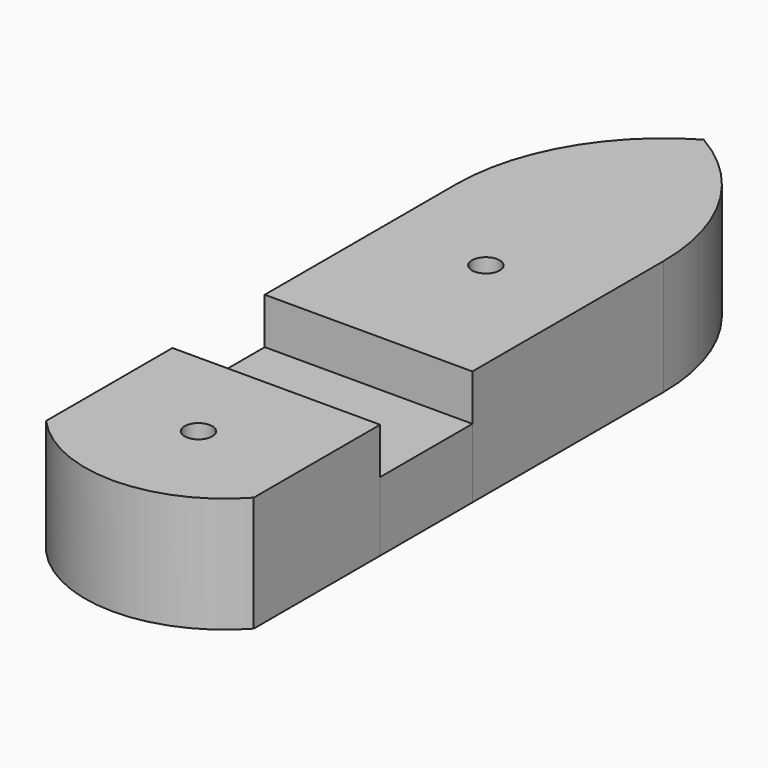
from build123d import *

# Parameters (mm, degrees)
F0_W     = 45
F0_H     = 51.803312
F0_R     = 3
F0_H_2   = 34.225544
F1_DEPTH = 25
F0_H_3   = 25
F2_DEPTH = 15


with BuildPart() as f1:
    # F0 (on Top) → F1 (new body)
    with BuildSketch(Plane.XY):
        with BuildLine():
            ThreePointArc((0, 94.485572), (-16.471143, 78.014428), (-22.5, 55.514428))
            Line((-22.5, 55.514428), (22.5, 55.514428))
            ThreePointArc((22.5, 55.514428), (16.471143, 78.014428), (0, 94.485572))
        make_face()
        with Locations((0, 29.612772)):
            Rectangle(F0_W, F0_H)
        with Locations((0, 35.48148)):
            Circle(F0_R, mode=Mode.SUBTRACT)
        with Locations((0, -38.401656)):
            Rectangle(F0_W, F0_H_2)
        with Locations((0, -42.364431)):
            Circle(F0_R, mode=Mode.SUBTRACT)
        with BuildLine():
            Line((22.5, -55.514428), (-22.5, -55.514428))
            ThreePointArc((-22.5, -55.514428), (0, -65.514428), (22.5, -55.514428))
        make_face()
    extrude(amount=F1_DEPTH)


with BuildPart() as f2:
    # F0 (on Top) → F2 (new body)
    with BuildSketch(Plane.XY):
        with Locations((0, -8.788884)):
            Rectangle(F0_W, F0_H_3)
    extrude(amount=F2_DEPTH)


solid = Compound([f1.part, f2.part])
